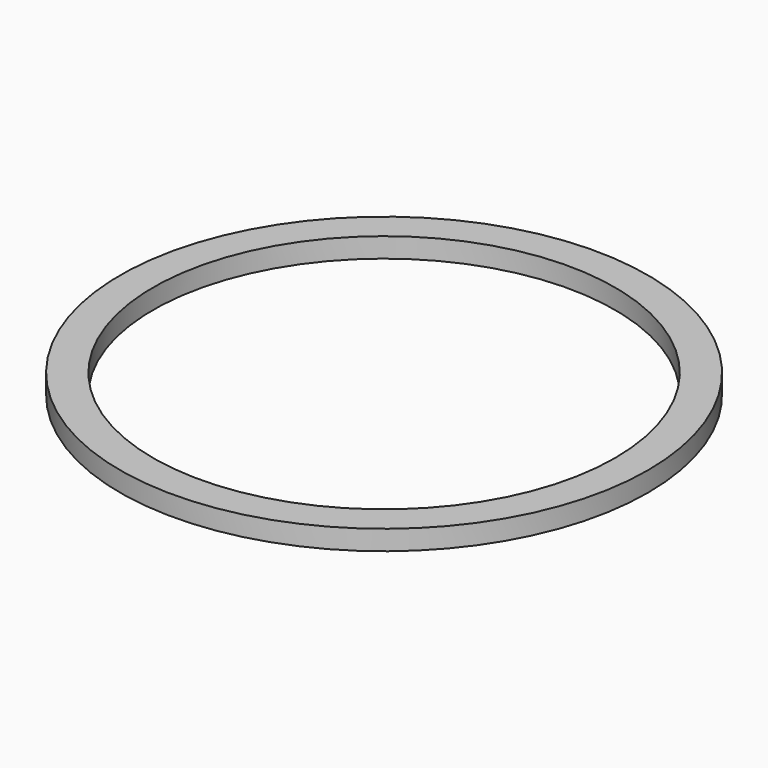
from build123d import *

# Parameters (mm, degrees)
CYLINDER072_R     = 21
CYLINDER072_DEPTH = 2
CYLINDER071_R     = 24
CYLINDER071_DEPTH = 1.8


with BuildPart() as cylinder072:
    # Cylinder072 → Cylinder072 (new body)
    with BuildSketch(Plane.XY.offset(20)):
        Circle(CYLINDER072_R)
    extrude(amount=CYLINDER072_DEPTH)


with BuildPart() as rim_support:
    # Cylinder071 → Cylinder071 (new body)
    with BuildSketch(Plane.XY.offset(20)):
        Circle(CYLINDER071_R)
    extrude(amount=CYLINDER071_DEPTH)

    # Cut022: cut Cylinder072
    add(cylinder072.part, mode=Mode.SUBTRACT)


with BuildPart() as rim_support_1:
    # Cut022 placement: moved
    add(rim_support.part.moved(Location((0, 0, 0.2))))


solid = rim_support_1.part
